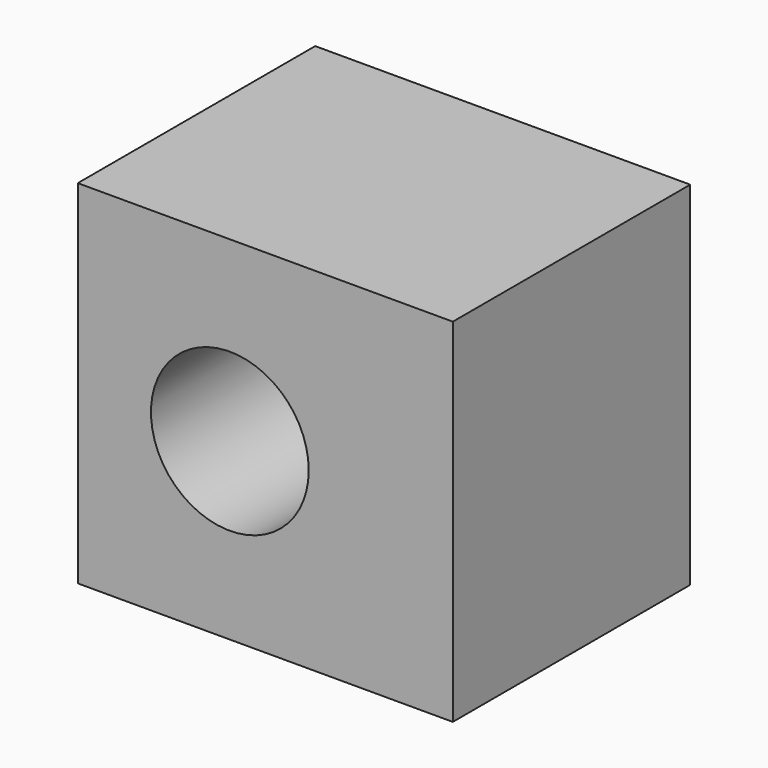
from build123d import *

# Parameters (mm, degrees)
F1_W     = 31.595901
F1_H     = 29.684613
F1_R     = 6.644763
F2_DEPTH = 25


with BuildPart() as f2:
    # F1 (on face) → F2 (new body)
    with BuildSketch(Plane.XZ):
        with Locations((-49.237094, -10.331715)):
            Rectangle(F1_W, F1_H)
        with Locations((-52.223541, -10.465935)):
            Circle(F1_R, mode=Mode.SUBTRACT)
    extrude(amount=F2_DEPTH)


solid = f2.part
